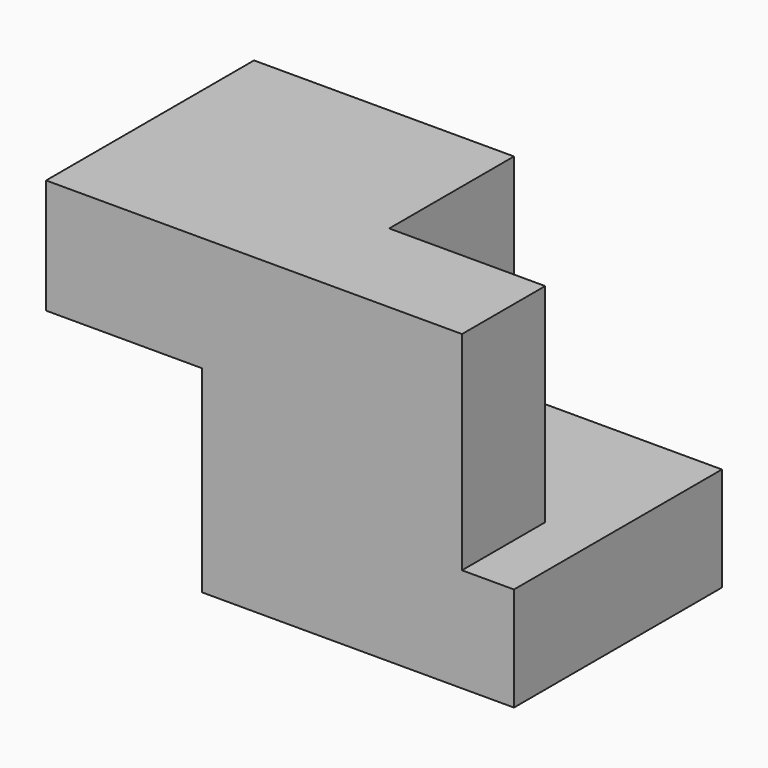
from build123d import *

# Parameters (mm, degrees)
F1_DEPTH = 63.5
F2_W     = 38.1
F2_H     = 50.8
F3_DEPTH = 25.4


with BuildPart() as f1:
    # F0 (on Front) → F1 (new body)
    with BuildSketch(Plane.XZ):
        Polygon((-86.982761, -25.590784), (-10.782761, -25.590784), (-10.782761, -0.190784), (-61.582761, -0.190784), (-61.582761, 50.609216), (-86.982761, 50.609216), (-125.082761, 50.609216), (-125.082761, 22.604095), (-86.982761, 22.604095), align=None)
    extrude(amount=F1_DEPTH)

    # F2 (on face) → F3 (join)
    with BuildSketch(Plane.XZ.offset(63.5)):
        with Locations((-42.532761, 25.209216)):
            Rectangle(F2_W, F2_H)
    extrude(amount=-F3_DEPTH)


solid = f1.part
